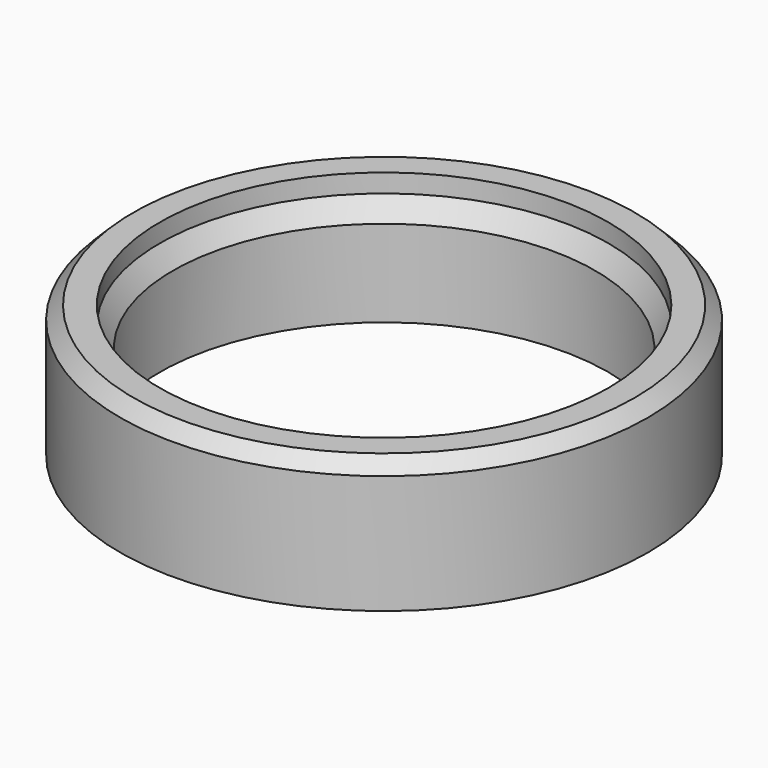
from build123d import *

# Parameters (mm, degrees)
F0_R      = 20
F1_DEPTH  = 10
F2_R      = 17
F3_DEPTH  = 1.4
F3_FACE_R = 17
F5_R      = 16
F7_R      = 17
F8_DEPTH  = 7.1
F9_SIZE   = 1


with BuildPart() as f1:
    # F0 (on Top) → F1 (new body)
    with BuildSketch(Plane.XY):
        Circle(F0_R)
    extrude(amount=F1_DEPTH)

    # F2 (on face) → F3 (cut)
    with BuildSketch(Plane.XY.offset(10)):
        Circle(F2_R)
    extrude(amount=-F3_DEPTH, mode=Mode.SUBTRACT)

    # F3_face (on face) → F6 section 0
    with BuildSketch(Plane.XY.offset(8.6)):
        Circle(F3_FACE_R)
    # F5 (on offset) → F6 section 1
    with BuildSketch(Plane.XY.offset(7.1)):
        Circle(F5_R)
    loft(mode=Mode.SUBTRACT)

    # F7 (on face) → F8 (cut, through all)
    with BuildSketch(Plane(origin=(0, 0, 0), x_dir=(1, 0, 0), z_dir=(0, 0, -1))):
        Circle(F7_R)
    extrude(amount=-F8_DEPTH, mode=Mode.SUBTRACT)

    # F9
    f9_edges = [f1.edges().sort_by_distance(p)[0] for p in [
        (-20, 0, 10),
    ]]
    chamfer(f9_edges, length=F9_SIZE)


solid = f1.part
